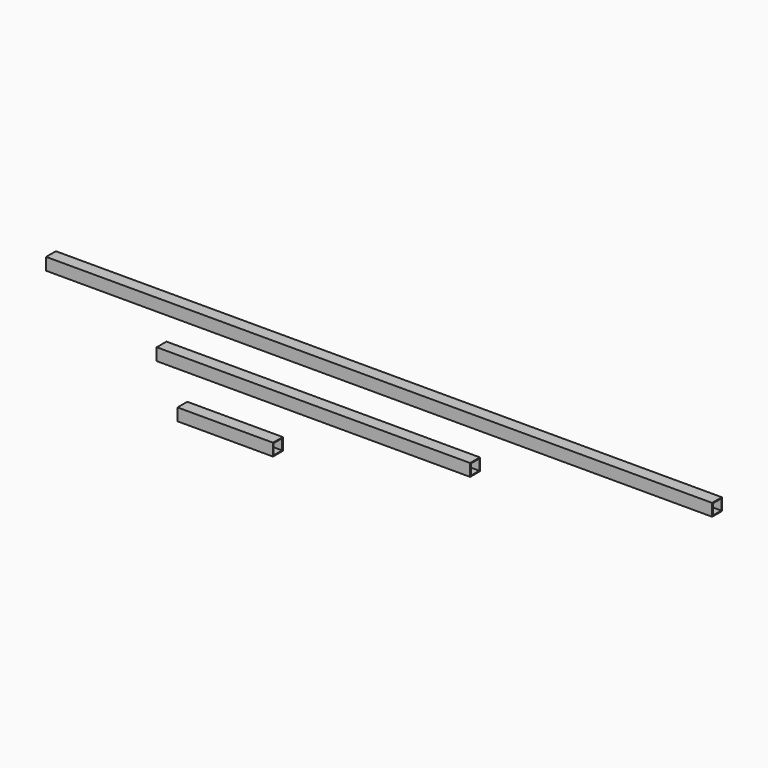
from build123d import *

# Parameters (mm, degrees)
F0_W     = 812.8
F0_H     = 31.75
F1_DEPTH = 31.75
F2_W     = 27.5336
F2_H     = 27.5336
F3_DEPTH = 855.472
F0_W_2   = 1727.2
F4_DEPTH = 31.75
F5_W     = 27.5336
F5_H     = 27.5336
F6_DEPTH = 1783.08
F0_W_3   = 247.65
F7_DEPTH = 31.75
F8_W     = 27.5336
F8_H     = 27.5336
F9_DEPTH = 254


with BuildPart() as f1:
    # F0 (on Top) → F1 (new body)
    with BuildSketch(Plane.XY):
        with Locations((4.515211, 43.863674)):
            Rectangle(F0_W, F0_H)
    extrude(amount=F1_DEPTH)

    # F2 (on face) → F3 (cut)
    with BuildSketch(Plane.YZ.offset(410.915211)):
        with Locations((43.863674, 15.875)):
            Rectangle(F2_W, F2_H)
    extrude(amount=-F3_DEPTH, mode=Mode.SUBTRACT)


with BuildPart() as f4:
    # F0 (on Top) → F4 (new body)
    with BuildSketch(Plane.XY):
        with Locations((39.223496, 213.444219)):
            Rectangle(F0_W_2, F0_H)
    extrude(amount=F4_DEPTH)

    # F5 (on face) → F6 (cut)
    with BuildSketch(Plane.YZ.offset(902.823496)):
        with Locations((213.444219, 15.875)):
            Rectangle(F5_W, F5_H)
    extrude(amount=-F6_DEPTH, mode=Mode.SUBTRACT)


with BuildPart() as f7:
    # F0 (on Top) → F7 (new body)
    with BuildSketch(Plane.XY):
        with Locations((-80.327241, -135.861841)):
            Rectangle(F0_W_3, F0_H)
    extrude(amount=F7_DEPTH)

    # F8 (on face) → F9 (cut)
    with BuildSketch(Plane.YZ.offset(43.497759)):
        with Locations((-135.861841, 15.875)):
            Rectangle(F8_W, F8_H)
    extrude(amount=-F9_DEPTH, mode=Mode.SUBTRACT)


solid = Compound([f1.part, f4.part, f7.part])
